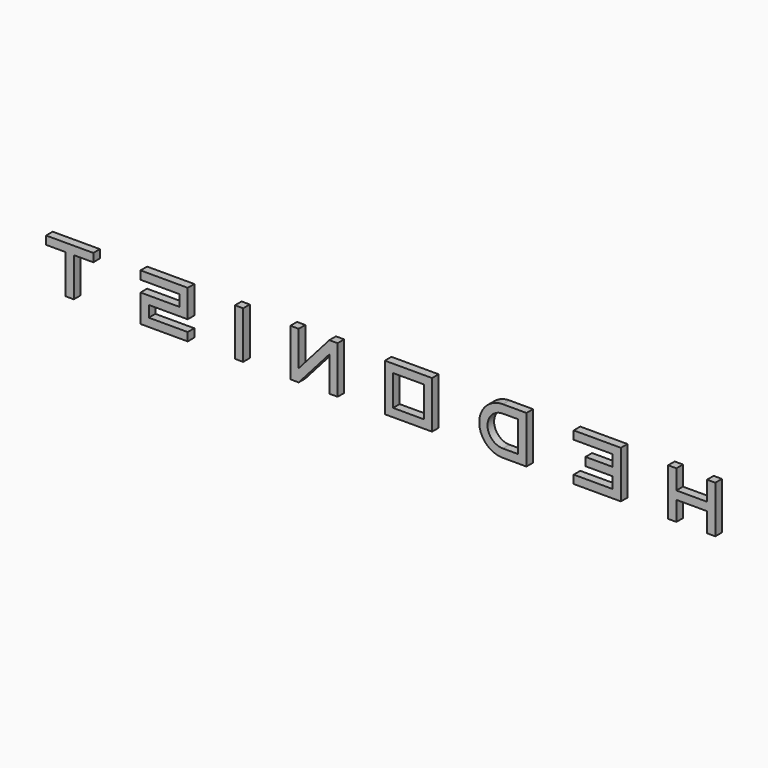
from build123d import *

# Parameters (mm, degrees)
F0_W     = 4
F0_H     = 4
F0_W_2   = 2.6
F0_H_2   = 2.6
F0_W_3   = 0.7
F1_DEPTH = 0.7


with BuildPart() as f1:
    # F0 (on Front) → F1 (new body)
    with BuildSketch(Plane.XZ):
        Polygon((83.175048, 109.165354), (83.175048, 113.165354), (82.475048, 113.165354), (82.475048, 111.515354), (79.875048, 111.515354), (79.875048, 113.165354), (79.175048, 113.165354), (79.175048, 109.165354), (79.875048, 109.165354), (79.875048, 110.815354), (82.475048, 110.815354), (82.475048, 109.165354), align=None)
        Polygon((75.175048, 109.165354), (75.175048, 113.165354), (71.175048, 113.165354), (71.175048, 112.465354), (74.475048, 112.465354), (74.475048, 111.515354), (72.175048, 111.515354), (72.175048, 110.815354), (74.475048, 110.815354), (74.475048, 109.865354), (71.175048, 109.865354), (71.175048, 109.165354), align=None)
        with BuildLine():
            Line((67.175048, 109.165354), (67.175048, 113.165354))
            Line((67.175048, 113.165354), (65.175048, 113.165354))
            ThreePointArc((65.175048, 113.165354), (63.175048, 111.165354), (65.175048, 109.165354))
            Line((65.175048, 109.165354), (67.175048, 109.165354))
        make_face()
        with BuildLine():
            Line((65.175048, 112.465354), (66.475048, 112.465354))
            Line((66.475048, 112.465354), (66.475048, 109.865354))
            Line((66.475048, 109.865354), (65.175048, 109.865354))
            ThreePointArc((65.175048, 109.865354), (63.875048, 111.165354), (65.175048, 112.465354))
        make_face(mode=Mode.SUBTRACT)
        with Locations((57.175048, 111.165354)):
            Rectangle(F0_W, F0_H)
        with Locations((57.175048, 111.165354)):
            Rectangle(F0_W_2, F0_H_2, mode=Mode.SUBTRACT)
        Polygon((51.175048, 109.165354), (51.175048, 113.165354), (50.475048, 113.165354), (47.875048, 110.222575), (47.875048, 113.165354), (47.175048, 113.165354), (47.175048, 109.165354), (47.875048, 109.165354), (50.475048, 112.108132), (50.475048, 109.165354), align=None)
        with Locations((42.825048, 111.165354)):
            Rectangle(F0_W_3, F0_H)
        Polygon((38.475048, 113.165354), (34.475048, 113.165354), (34.475048, 112.465354), (37.775048, 112.465354), (37.775048, 111.515354), (34.475048, 111.515354), (34.475048, 109.165354), (38.475048, 109.165354), (38.475048, 109.865354), (35.175048, 109.865354), (35.175048, 110.815354), (38.475048, 110.815354), align=None)
        Polygon((30.475048, 112.465354), (30.475048, 113.165354), (26.475048, 113.165354), (26.475048, 112.465354), (28.125048, 112.465354), (28.125048, 109.165354), (28.825048, 109.165354), (28.825048, 112.465354), align=None)
    extrude(amount=F1_DEPTH)


solid = f1.part
